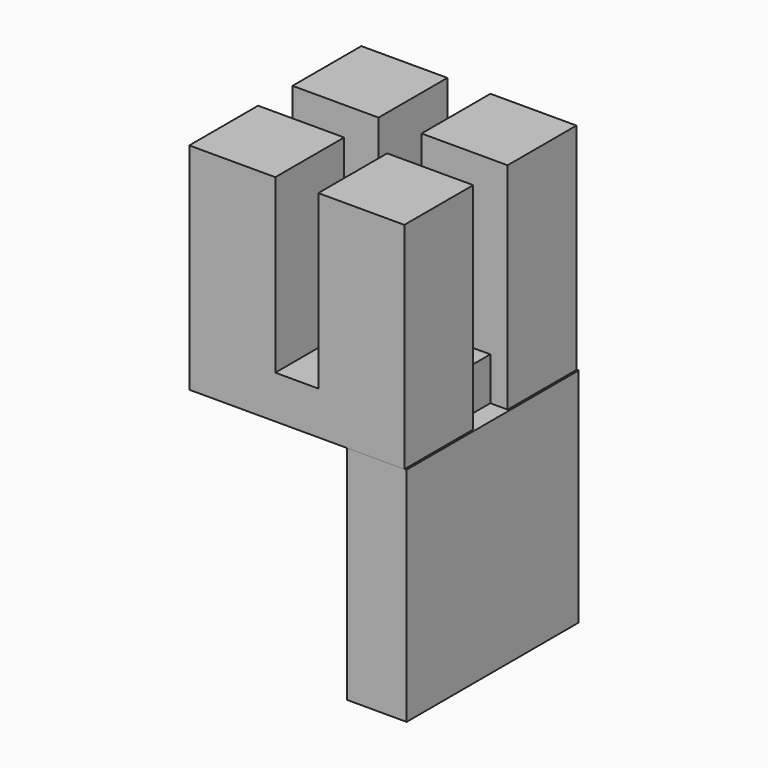
from build123d import *

# Parameters (mm, degrees)
F0_W     = 10
F0_H     = 10
F1_DEPTH = 25
F2_W     = 22.988717
F2_H     = 25
F3_DEPTH = 5
F4_W     = 6.904623
F4_H     = 25.005924
F5_DEPTH = 25.8


with BuildPart() as f1:
    # F0 (on Top) → F1 (new body)
    with BuildSketch(Plane.XY):
        with Locations((10, 25)):
            Rectangle(F0_W, F0_H)
        with Locations((25, 25)):
            Rectangle(F0_W, F0_H)
        with Locations((25, 10)):
            Rectangle(F0_W, F0_H)
        with Locations((10, 10)):
            Rectangle(F0_W, F0_H)
    extrude(amount=F1_DEPTH)

    # F2 (on Top) → F3 (join)
    with BuildSketch(Plane.XY):
        with Locations((16.494358, 17.5)):
            Rectangle(F2_W, F2_H)
    extrude(amount=F3_DEPTH)

    # F4 (on Top) → F5 (join)
    with BuildSketch(Plane.XY):
        with Locations((26.778734, 17.541469)):
            Rectangle(F4_W, F4_H)
    extrude(amount=-F5_DEPTH)


solid = f1.part
